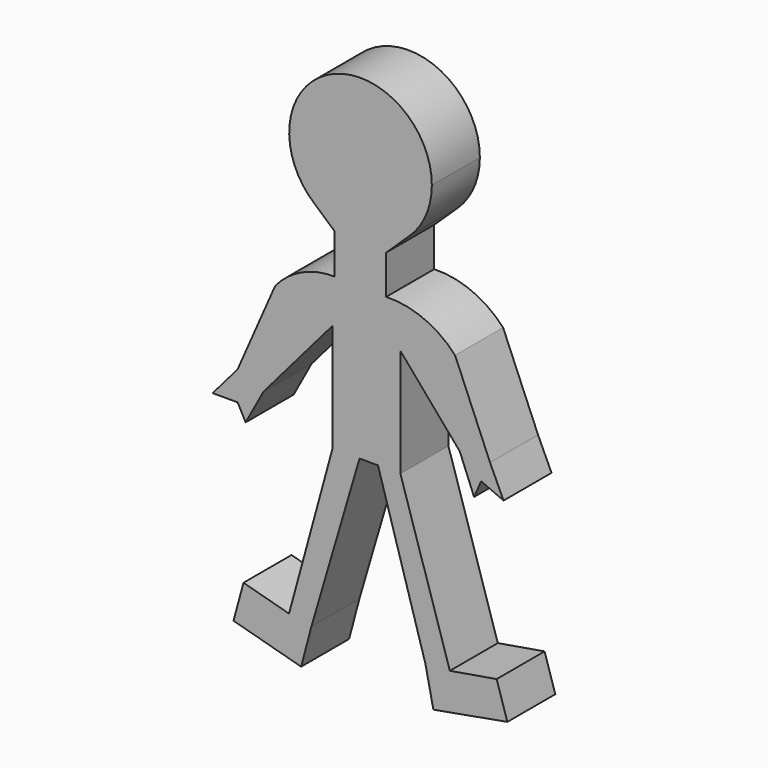
from build123d import *

# Parameters (mm, degrees)
F1_DEPTH = 76.2


with BuildPart() as f1:
    # F0 (on Front) → F1 (new body)
    with BuildSketch(Plane.XZ):
        with BuildLine():
            Line((-90.485045, 253.382818), (-65.274462, 231.143922))
            Line((-65.274462, 231.143922), (-65.274462, 180.668339))
            ThreePointArc((-65.274462, 180.668339), (-107.071525, 171.830695), (-140.921369, 145.76757))
            Line((-140.921369, 145.76757), (-188.62842, 36.962021))
            Line((-188.62842, 36.962021), (-155.84473, 22.587633))
            Line((-155.84473, 22.587633), (-68.105347, 124.843433))
            Line((-68.105347, 124.843433), (-68.105347, -12.41896))
            Line((-68.105347, -12.41896), (-33.789746, -12.41896))
            Line((-33.789746, -12.41896), (-10.354708, -12.41896))
            Line((-10.354708, -12.41896), (18.102134, -12.41896))
            Line((18.102134, -12.41896), (18.102134, 124.843433))
            Line((18.102134, 124.843433), (93.485791, 36.962021))
            Line((93.485791, 36.962021), (131.929487, 36.962021))
            Line((131.929487, 36.962021), (87.570287, 142.419711))
            ThreePointArc((87.570287, 142.419711), (47.84996, 170.498746), (0, 179.246202))
            Line((0, 179.246202), (0, 228.796229))
            Line((0, 228.796229), (30.052164, 257.523195))
            ThreePointArc((30.052164, 257.523195), (-29.42713, 232.474115), (-90.485045, 253.382818))
        make_face()
        with BuildLine():
            ThreePointArc((58.041902, 322.999239), (-70.978672, 405.015548), (-90.485045, 253.382818))
            ThreePointArc((-90.485045, 253.382818), (-29.42713, 232.474115), (30.052164, 257.523195))
            ThreePointArc((30.052164, 257.523195), (50.751039, 287.395385), (58.041902, 322.999239))
        make_face()
        Polygon((-155.84473, 22.587633), (-188.62842, 36.962021), (-220.343246, 0), (-188.62842, 0), (-178.397194, -19.018693), align=None)
        Polygon((-33.789746, -12.41896), (-68.105347, -12.41896), (-123.345084, -214.964673), (-181.134347, -199.203966), (-193.857727, -245.856364), (-107.952848, -269.284967), (-94.888248, -219.986469), align=None)
        Polygon((149.069794, 0), (131.929487, 36.962021), (93.485791, 36.962021), (111.64742, -8.121066), (120.668334, 12.452949), align=None)
        Polygon((18.102134, -12.41896), (-10.354708, -12.41896), (49.906828, -214.964673), (59.950422, -262.671709), (153.932877, -245.856364), (140.299141, -202.410191), (80.87457, -212.453797), align=None)
    extrude(amount=F1_DEPTH)


solid = f1.part
